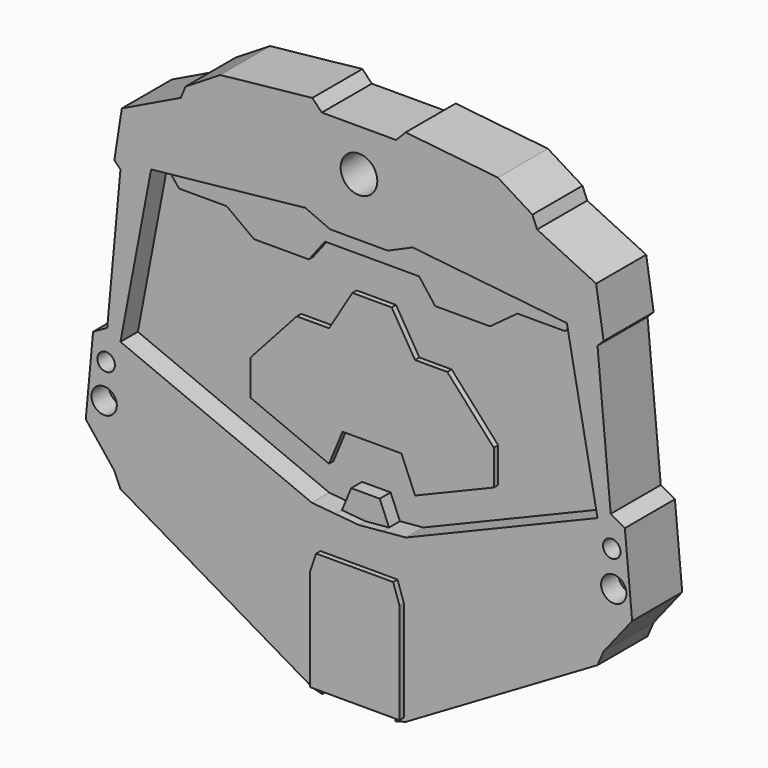
from build123d import *

# Parameters (mm, degrees)
F0_R     = 1.182239
F0_R_2   = 0.817997
F1_DEPTH = 5.842
F2_DEPTH = 3.81
F3_DEPTH = 5.08
F4_DEPTH = 4.318
F5_R     = 1.71122
F6_DEPTH = 25.4
F7_DEPTH = 6.35


with BuildPart() as f1:
    # F0 (on Front) → F1 (new body)
    with BuildSketch(Plane.XZ):
        Polygon((-4.180855, -20.625193), (-4.353608, -20.920252), (-3.424949, -21.167446), (-3.28061, -20.625193), align=None)
        Polygon((3.424949, -21.167446), (4.353608, -20.920252), (4.180855, -20.625193), (3.28061, -20.625193), align=None)
        Polygon((22.26289, -6.835999), (22.26289, 1.657223), (4.394875, -5.754956), (2.197438, -5.957079), (0, -6.159202), (-2.197438, -5.957079), (-4.394875, -5.754956), (-22.26289, 1.657223), (-22.26289, -6.835999), (-22.832444, -9.118818), (-15.86828, -11.246894), (-14.217053, -15.145346), (-4.353608, -20.920252), (-4.180855, -20.625193), (-4.180855, -11.195441), (-3.601368, -9.465247), (0, -9.465247), (3.601368, -9.465247), (4.180855, -11.195441), (4.180855, -20.625193), (4.353608, -20.920252), (14.217053, -15.145346), (15.86828, -11.246894), (22.832444, -9.118818), align=None)
        Polygon((-15.86828, -11.246894), (-22.832444, -9.118818), (-22.26289, -10.434624), (-14.217053, -15.145346), align=None)
        Polygon((22.26289, -10.434624), (22.832444, -9.118818), (15.86828, -11.246894), (14.217053, -15.145346), align=None)
        Polygon((24.816887, 1.657223), (22.26289, 1.657223), (22.26289, -6.835999), (22.832444, -9.118818), (25.498668, -5.754956), align=None)
        with Locations((23.784082, -3.675047)):
            Circle(F0_R, mode=Mode.SUBTRACT)
        with Locations((23.597831, -0.42893)):
            Circle(F0_R_2, mode=Mode.SUBTRACT)
        Polygon((-22.26289, -6.835999), (-22.26289, 1.657223), (-24.816887, 1.657223), (-25.498668, -5.754956), (-22.832444, -9.118818), align=None)
        with Locations((-23.784082, -3.675047)):
            Circle(F0_R, mode=Mode.SUBTRACT)
        with Locations((-23.597831, -0.42893)):
            Circle(F0_R_2, mode=Mode.SUBTRACT)
        Polygon((-19.404403, 16.750786), (-22.26289, 15.816627), (-23.496922, 2.400486), (-22.26289, 1.657223), align=None)
        Polygon((23.496922, 2.400486), (22.26289, 15.816627), (19.404403, 16.750786), (22.26289, 1.657223), align=None)
        Polygon((24.816887, 1.657223), (23.496922, 2.400486), (22.26289, 1.657223), align=None)
        Polygon((-22.26289, 1.657223), (-23.496922, 2.400486), (-24.816887, 1.657223), align=None)
        Polygon((-19.404403, 16.750786), (-22.832444, 16.386179), (-22.26289, 15.816627), align=None)
        Polygon((22.26289, 15.816627), (22.832444, 16.386179), (19.404403, 16.750786), align=None)
        Polygon((22.832444, 16.386179), (22.136323, 20.879321), (5.009265, 22.700958), (2.695112, 21.684956), (0, 21.684956), (-2.695112, 21.684956), (-5.009265, 22.700958), (-22.136323, 20.879321), (-22.832444, 16.386179), (-19.404403, 16.750786), (-5.009265, 18.281856), (-2.695112, 17.265854), (0, 17.265854), (2.695112, 17.265854), (5.009265, 18.281856), (19.404403, 16.750786), align=None)
        Polygon((3.467637, 26.608711), (0, 26.608711), (-3.467637, 26.608711), (-4.353608, 27.524108), (-12.96019, 26.608711), (-16.187659, 24.61306), (-16.630644, 23.537237), (-22.136323, 20.879321), (-5.009265, 22.700958), (-2.695112, 21.684956), (0, 21.684956), (2.695112, 21.684956), (5.009265, 22.700958), (22.136323, 20.879321), (16.630644, 23.537237), (16.187659, 24.61306), (12.96019, 26.608711), (4.353608, 27.524108), align=None)
    extrude(amount=F1_DEPTH)

    # F0 (on Front) → F2 (join)
    with BuildSketch(Plane.XZ):
        with Locations((23.784082, -3.675047)):
            Circle(F0_R)
        with Locations((23.597831, -0.42893)):
            Circle(F0_R_2)
        with Locations((-23.784082, -3.675047)):
            Circle(F0_R)
        with Locations((-23.597831, -0.42893)):
            Circle(F0_R_2)
        Polygon((22.26289, 1.657223), (19.404403, 16.750786), (18.012892, 15.012917), (13.572707, 15.012917), (11.013955, 13.131482), (5.896451, 13.131482), (4.394875, 15.088174), (0, 15.088174), (-4.394875, 15.088174), (-5.896451, 13.131482), (-11.013955, 13.131482), (-13.572707, 15.012917), (-18.012892, 15.012917), (-19.404403, 16.750786), (-22.26289, 1.657223), (-4.394875, -5.754956), (-2.197438, -5.957079), (-1.331172, -3.868833), (0, -3.868833), (1.331172, -3.868833), (2.197438, -5.957079), (4.394875, -5.754956), align=None)
        Polygon((-2.750259, 0), (-4.015016, -3.048861), (-11.364689, 0), (-11.364689, 3.272761), (-7.025312, 8.089235), (-4.015016, 8.089235), (-1.832551, 11.701591), (0, 11.701591), (1.832551, 11.701591), (4.015016, 8.089235), (7.025312, 8.089235), (11.364689, 3.272761), (11.364689, 0), (4.015016, -3.048861), (2.750259, 0), (0, 0), align=None, mode=Mode.SUBTRACT)
    extrude(amount=F2_DEPTH)

    # F0 (on Front) → F3 (join)
    with BuildSketch(Plane.XZ):
        Polygon((0, -6.159202), (2.197438, -5.957079), (1.331172, -3.868833), (0, -3.868833), (-1.331172, -3.868833), (-2.197438, -5.957079), align=None)
    extrude(amount=F3_DEPTH)

    # F0 (on Front) → F4 (join)
    with BuildSketch(Plane.XZ):
        Polygon((-11.364689, 0), (-4.015016, -3.048861), (-2.750259, 0), (0, 0), (2.750259, 0), (4.015016, -3.048861), (11.364689, 0), (11.364689, 3.272761), (7.025312, 8.089235), (4.015016, 8.089235), (1.832551, 11.701591), (0, 11.701591), (-1.832551, 11.701591), (-4.015016, 8.089235), (-7.025312, 8.089235), (-11.364689, 3.272761), align=None)
        Polygon((18.012892, 15.012917), (19.404403, 16.750786), (5.009265, 18.281856), (2.695112, 17.265854), (0, 17.265854), (-2.695112, 17.265854), (-5.009265, 18.281856), (-19.404403, 16.750786), (-18.012892, 15.012917), (-13.572707, 15.012917), (-11.013955, 13.131482), (-5.896451, 13.131482), (-4.394875, 15.088174), (0, 15.088174), (4.394875, 15.088174), (5.896451, 13.131482), (11.013955, 13.131482), (13.572707, 15.012917), align=None)
    extrude(amount=F4_DEPTH)

    # F5 (on face) → F6 (cut)
    with BuildSketch(Plane.XZ.offset(5.842)):
        with Locations((0, 22.658981)):
            Circle(F5_R)
    extrude(amount=-F6_DEPTH, mode=Mode.SUBTRACT)

    # F0 (on Front) → F7 (join)
    with BuildSketch(Plane.XZ):
        Polygon((3.28061, -20.625193), (4.180855, -20.625193), (4.180855, -11.195441), (3.601368, -9.465247), (0, -9.465247), (-3.601368, -9.465247), (-4.180855, -11.195441), (-4.180855, -20.625193), (-3.28061, -20.625193), (0, -20.625193), align=None)
    extrude(amount=F7_DEPTH)


solid = f1.part
